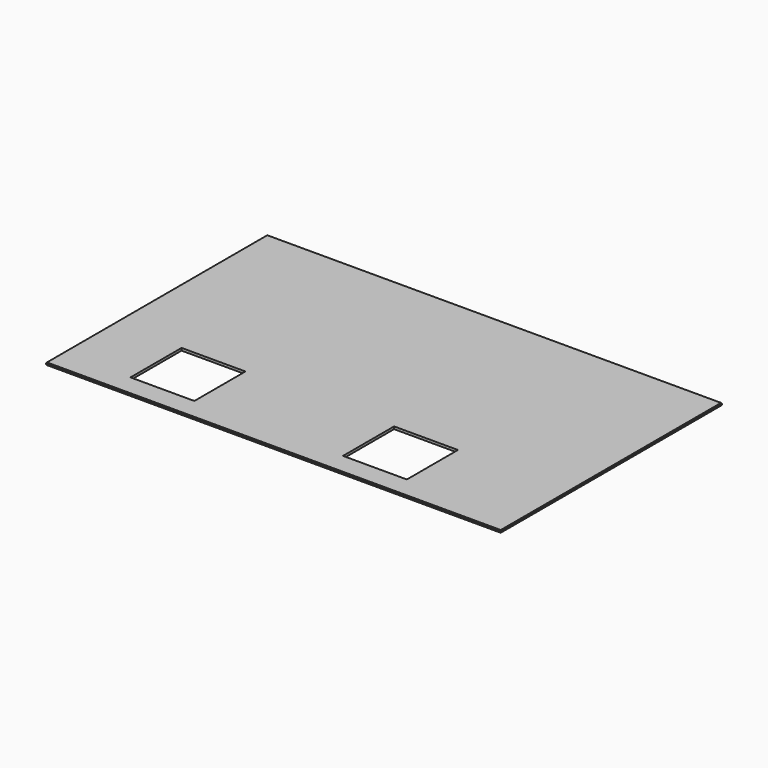
from build123d import *

# Parameters (mm, degrees)
F0_W     = 933
F0_H     = 567
F1_DEPTH = 2.5
F2_W     = 131
F2_H     = 131
F3_DEPTH = 5.001
F4_W     = 131
F4_H     = 131
F5_DEPTH = 5.001
F6_SIZE  = 1


with BuildPart() as f1:
    # F0 (on Top) → F1 (new body, symmetric)
    with BuildSketch(Plane.XY):
        Rectangle(F0_W, F0_H)
    extrude(amount=F1_DEPTH, both=True)

    # F2 (on face) → F3 (cut, through all)
    with BuildSketch(Plane.XY.offset(2.5)):
        with Locations((-263, -174)):
            Rectangle(F2_W, F2_H)
    extrude(amount=-F3_DEPTH, mode=Mode.SUBTRACT)

    # F4 (on face) → F5 (cut, through all)
    with BuildSketch(Plane.XY.offset(2.5)):
        with Locations((173, -174)):
            Rectangle(F4_W, F4_H)
    extrude(amount=-F5_DEPTH, mode=Mode.SUBTRACT)

    # F6
    f6_edges = [f1.edges().sort_by_distance(p)[0] for p in [
        (-466.5, 0, 2.5),
        (-466.5, 0, -2.5),
        (0, -283.5, -2.5),
        (0, -283.5, 2.5),
        (466.5, 0, -2.5),
        (466.5, 0, 2.5),
        (0, 283.5, 2.5),
        (0, 283.5, -2.5),
    ]]
    chamfer(f6_edges, length=F6_SIZE)


solid = f1.part
